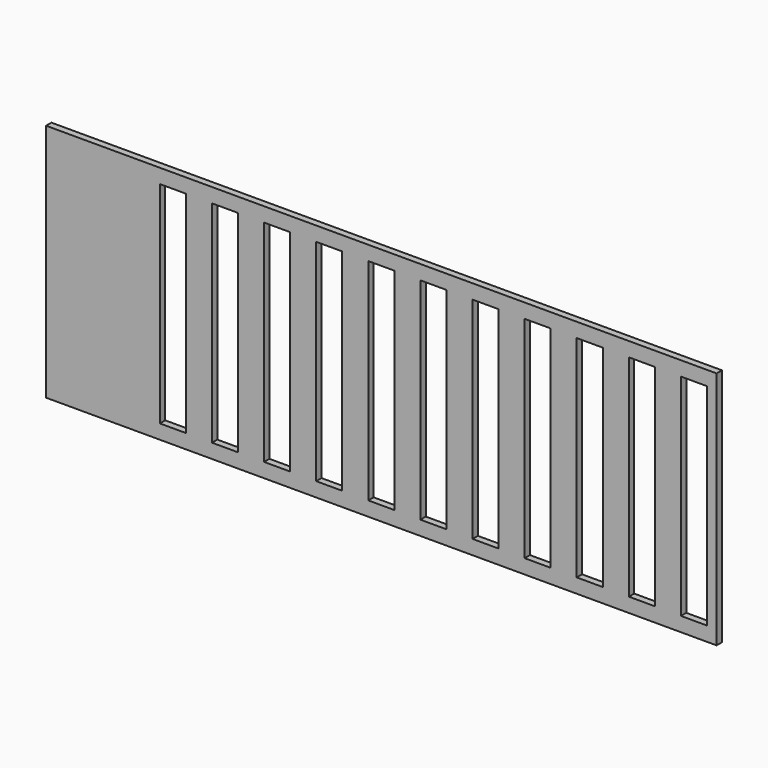
from build123d import *

# Parameters (mm, degrees)
F0_W     = 177.8
F0_H     = 63.5
F0_W_2   = 6.9088
F0_H_2   = 55.88
F1_DEPTH = 1.778
F2_W     = 20.7264
F2_H     = 55.88
F3_DEPTH = 1.778


with BuildPart() as f1:
    # F0 (on Front) → F1 (new body)
    with BuildSketch(Plane.XZ):
        Rectangle(F0_W, F0_H)
        Polygon((86.36, 27.94), (86.36, -27.94), (79.4512, -27.94), (72.5424, -27.94), (65.6336, -27.94), (58.7248, -27.94), (51.816, -27.94), (44.9072, -27.94), (37.9984, -27.94), (31.0896, -27.94), (24.1808, -27.94), (17.272, -27.94), (10.3632, -27.94), (3.4544, -27.94), (-3.4544, -27.94), (-10.3632, -27.94), (-17.272, -27.94), (-24.1808, -27.94), (-31.0896, -27.94), (-37.9984, -27.94), (-44.9072, -27.94), (-51.816, -27.94), (-58.7248, -27.94), (-65.6336, -27.94), (-72.5424, -27.94), (-79.4512, -27.94), (-86.36, -27.94), (-86.36, 27.94), (-79.4512, 27.94), (-72.5424, 27.94), (-65.6336, 27.94), (-58.7248, 27.94), (-51.816, 27.94), (-44.9072, 27.94), (-37.9984, 27.94), (-31.0896, 27.94), (-24.1808, 27.94), (-17.272, 27.94), (-10.3632, 27.94), (-3.4544, 27.94), (3.4544, 27.94), (10.3632, 27.94), (17.272, 27.94), (24.1808, 27.94), (31.0896, 27.94), (37.9984, 27.94), (44.9072, 27.94), (51.816, 27.94), (58.7248, 27.94), (65.6336, 27.94), (72.5424, 27.94), (79.4512, 27.94), align=None, mode=Mode.SUBTRACT)
        with Locations((-75.9968, 0)):
            Rectangle(F0_W_2, F0_H_2)
        with Locations((-62.1792, 0)):
            Rectangle(F0_W_2, F0_H_2)
        with Locations((-48.3616, 0)):
            Rectangle(F0_W_2, F0_H_2)
        with Locations((-34.544, 0)):
            Rectangle(F0_W_2, F0_H_2)
        with Locations((-20.7264, 0)):
            Rectangle(F0_W_2, F0_H_2)
        with Locations((-6.9088, 0)):
            Rectangle(F0_W_2, F0_H_2)
        with Locations((6.9088, 0)):
            Rectangle(F0_W_2, F0_H_2)
        with Locations((20.7264, 0)):
            Rectangle(F0_W_2, F0_H_2)
        with Locations((34.544, 0)):
            Rectangle(F0_W_2, F0_H_2)
        with Locations((48.3616, 0)):
            Rectangle(F0_W_2, F0_H_2)
        with Locations((62.1792, 0)):
            Rectangle(F0_W_2, F0_H_2)
        with Locations((75.9968, 0)):
            Rectangle(F0_W_2, F0_H_2)
    extrude(amount=F1_DEPTH)

    # F2 (on face) → F3 (join)
    with BuildSketch(Plane.XZ.offset(1.778)):
        with Locations((-75.9968, 0)):
            Rectangle(F2_W, F2_H)
    extrude(amount=-F3_DEPTH)


solid = f1.part
